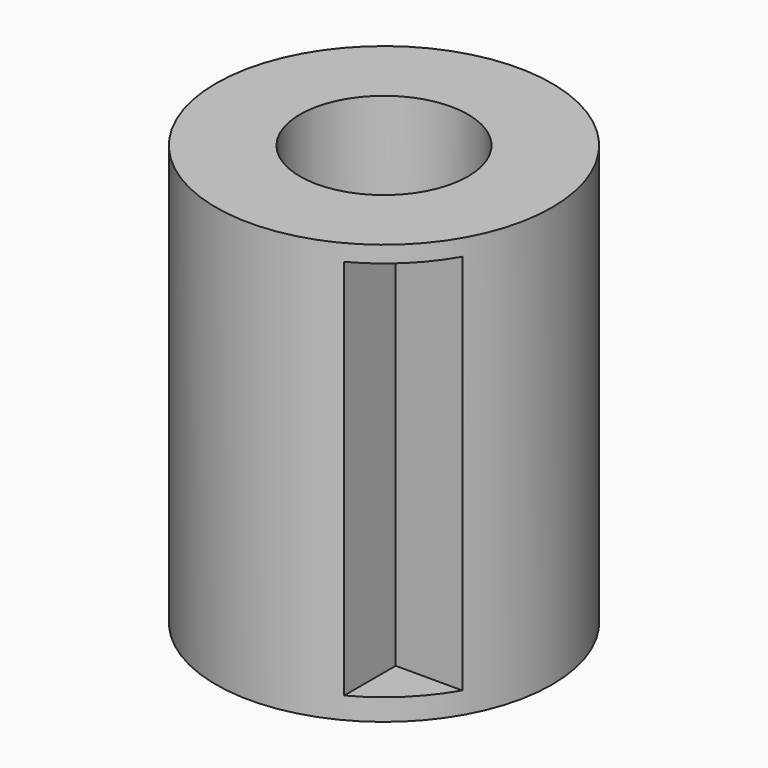
from build123d import *

# Parameters (mm, degrees)
F0_R     = 10
F0_R_2   = 2.5
F1_DEPTH = 25
F2_R     = 5
F2_R_2   = 2.5
F3_DEPTH = 12.5
F5_W     = 4.468582
F5_H     = 22.723214
F6_DEPTH = 5


with BuildPart() as f1:
    # F0 (on Top) → F1 (new body)
    with BuildSketch(Plane.XY):
        Circle(F0_R)
        Circle(F0_R_2, mode=Mode.SUBTRACT)
    extrude(amount=F1_DEPTH)

    # F2 (on face) → F3 (cut)
    with BuildSketch(Plane.XY.offset(25)):
        Circle(F2_R)
        Circle(F2_R_2, mode=Mode.SUBTRACT)
    extrude(amount=-F3_DEPTH, mode=Mode.SUBTRACT)

    # F5 (on offset) → F6 (cut)
    with BuildSketch(Plane.XZ.offset(10)):
        with Locations((6.929936, 12.65571)):
            Rectangle(F5_W, F5_H)
    extrude(amount=-F6_DEPTH, mode=Mode.SUBTRACT)


solid = f1.part
